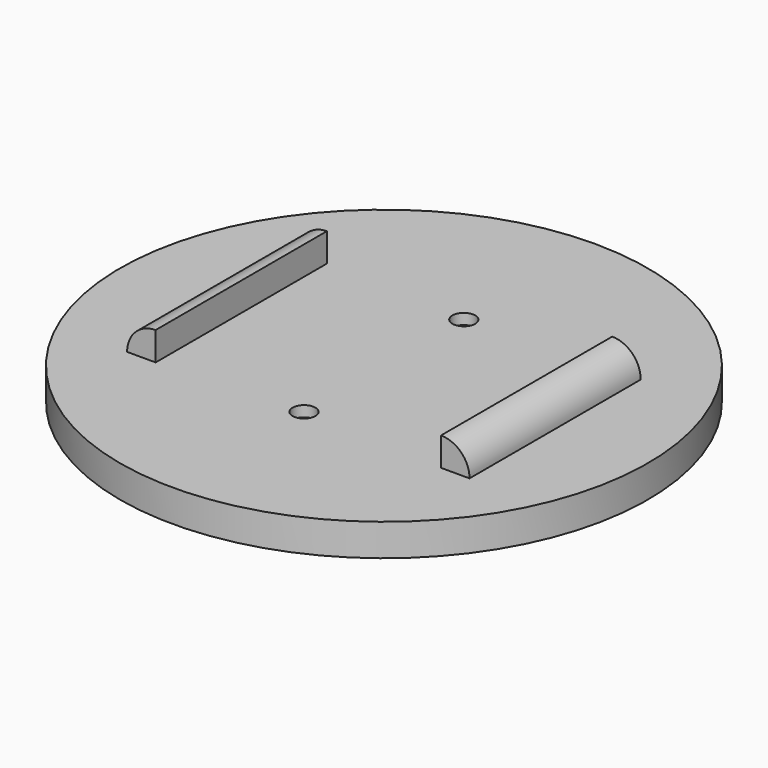
from build123d import *

# Parameters (mm, degrees)
F0_R      = 37
F1_DEPTH  = 4.5
F3_DEPTH  = 3.5
F5_DEPTH  = 15
F6_R      = 1.6
F7_DEPTH  = 4.501
F9_DEPTH  = 3
F11_ANGLE = 90


with BuildPart() as f1:
    # F0 (on Top) → F1 (new body)
    with BuildSketch(Plane.XY):
        Circle(F0_R)
    extrude(amount=F1_DEPTH)

    # F2 (on face) → F3 (cut)
    with BuildSketch(Plane(origin=(0, 0, 0), x_dir=(1, 0, 0), z_dir=(0, 0, -1))):
        with BuildLine():
            ThreePointArc((3.479853, -0.375), (3.49496, -0.18777), (3.5, 0))
            ThreePointArc((3.5, 0), (3.49496, 0.18777), (3.479853, 0.375))
            ThreePointArc((3.479853, 0.375), (2.338536, 2.604083), (0, 3.5))
            ThreePointArc((0, 3.5), (-2.338536, 2.604083), (-3.479853, 0.375))
            ThreePointArc((-3.479853, 0.375), (-3.5, 0), (-3.479853, -0.375))
            ThreePointArc((-3.479853, -0.375), (0, -3.5), (3.479853, -0.375))
        make_face()
        with BuildLine():
            ThreePointArc((0, 3.5), (2.338536, 2.604083), (3.479853, 0.375))
            Line((3.479853, 0.375), (1.988487, 14.214286))
            ThreePointArc((1.988487, 14.214286), (1.99712, 14.107297), (2, 14))
            ThreePointArc((2, 14), (1.414214, 12.585786), (0, 12))
            Line((0, 12), (0, 3.5))
        make_face()
        with BuildLine():
            Line((1.988487, -14.214286), (3.479853, -0.375))
            ThreePointArc((3.479853, -0.375), (0, -3.5), (-3.479853, -0.375))
            Line((-3.479853, -0.375), (-1.988487, -14.214286))
            ThreePointArc((-1.988487, -14.214286), (-0.107297, -12.00288), (2, -14))
            ThreePointArc((2, -14), (1.99712, -14.107297), (1.988487, -14.214286))
        make_face()
        with BuildLine():
            ThreePointArc((-3.479853, 0.375), (-2.338536, 2.604083), (0, 3.5))
            Line((0, 3.5), (0, 12))
            ThreePointArc((0, 12), (-1.488048, 12.663694), (-1.988487, 14.214286))
            Line((-1.988487, 14.214286), (-3.479853, 0.375))
        make_face()
        with BuildLine():
            ThreePointArc((2, 14), (1.99712, 14.107297), (1.988487, 14.214286))
            ThreePointArc((1.988487, 14.214286), (0, 16), (-1.988487, 14.214286))
            ThreePointArc((-1.988487, 14.214286), (-1.488048, 12.663694), (0, 12))
            ThreePointArc((0, 12), (1.414214, 12.585786), (2, 14))
        make_face()
        with BuildLine():
            ThreePointArc((-1.988487, -14.214286), (0, -16), (1.988487, -14.214286))
            ThreePointArc((1.988487, -14.214286), (1.99712, -14.107297), (2, -14))
            ThreePointArc((2, -14), (-0.107297, -12.00288), (-1.988487, -14.214286))
        make_face()
    extrude(amount=-F3_DEPTH, mode=Mode.SUBTRACT)

    # F4 (on Right) → F5 (join, symmetric)
    with BuildSketch(Plane.YZ):
        with BuildLine():
            ThreePointArc((-20, 8.5), (-22.828427, 7.328427), (-24, 4.5))
            Line((-24, 4.5), (-20, 4.5))
            Line((-20, 4.5), (-20, 8.5))
        make_face()
        with BuildLine():
            Line((20, 8.5), (20, 4.5))
            Line((20, 4.5), (24, 4.5))
            ThreePointArc((24, 4.5), (22.828427, 7.328427), (20, 8.5))
        make_face()
    extrude(amount=F5_DEPTH, both=True)

    # F6 (on face) → F7 (cut, through all)
    with BuildSketch(Plane.XY.offset(4.5)):
        with Locations((-14, 0)):
            Circle(F6_R)
        with Locations((14, 0)):
            Circle(F6_R)
    extrude(amount=-F7_DEPTH, mode=Mode.SUBTRACT)

    # F8 (on face) → F9 (cut)
    with BuildSketch(Plane(origin=(0, 0, 0), x_dir=(1, 0, 0), z_dir=(0, 0, -1))):
        Polygon((12.412287, 2.75), (10.824574, 0), (12.412287, -2.75), (15.587713, -2.75), (17.175426, 0), (15.587713, 2.75), align=None)
        Polygon((-12.412287, -2.75), (-10.824574, 0), (-12.412287, 2.75), (-15.587713, 2.75), (-17.175426, 0), (-15.587713, -2.75), align=None)
    extrude(amount=-F9_DEPTH, mode=Mode.SUBTRACT)


with BuildPart() as f1_1:
    # F11: moved
    add(f1.part.rotate(Axis((0, 0, 35.324413), (0, 0, 1)), F11_ANGLE))


solid = f1_1.part
